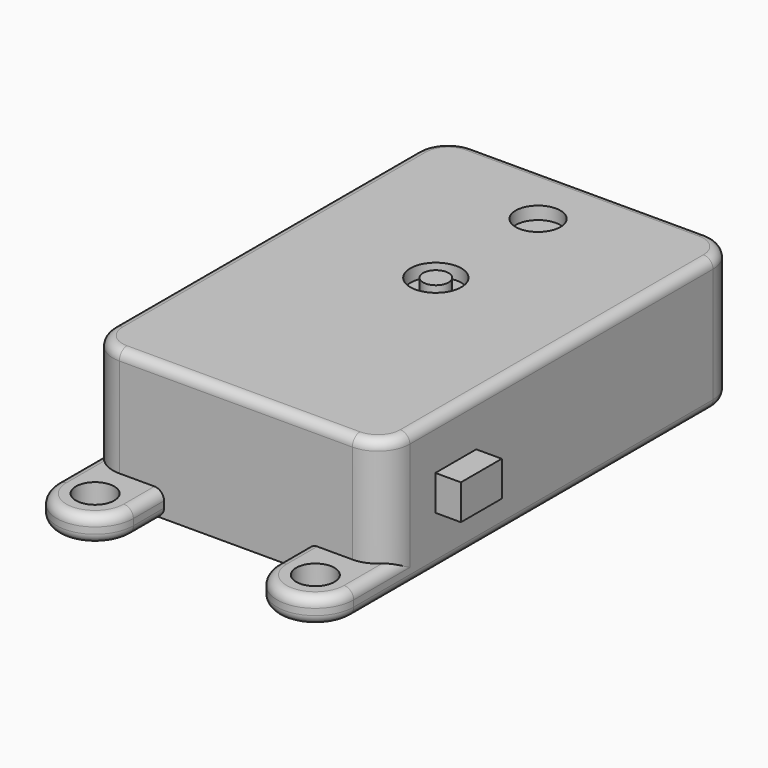
from build123d import *

# Parameters (mm, degrees)
SKETCH_W        = 23.25
SKETCH_H        = 34.68
PAD_DEPTH       = 10.5
SKETCH001_R     = 1.5
PAD001_DEPTH    = 2
SKETCH002_R     = 1.75
SKETCH002_R_2   = 2
SKETCH002_R_3   = 1
POCKET_DEPTH    = 1
FILLET_R        = 2.5
FILLET001_R     = 0.75
SKETCH003_W     = 5.08
SKETCH003_H     = 2.54
POCKET001_DEPTH = 5
SKETCH004_W     = 0.6
SKETCH004_H     = 0.6
SKETCH004_W_2   = 6.69
PAD002_DEPTH    = 4
SKETCH005_W     = 19.75
SKETCH005_H     = 31.18
POCKET002_DEPTH = 0.5
SKETCH006_W     = 4
SKETCH006_H     = 2.75
PAD003_DEPTH    = 2


with BuildPart() as part:
    # Sketch → Pad (new body)
    with BuildSketch(Plane.XY):
        Rectangle(SKETCH_W, SKETCH_H)
    extrude(amount=PAD_DEPTH)

    # Sketch001 (on Face5 of Pad) → Pad001 (join)
    with BuildSketch(Plane(origin=(0, 0, 0), x_dir=(1, 0, 0), z_dir=(0, 0, -1))):
        with BuildLine():
            Line((-11.625, 20.34), (-11.625, 17.34))
            Line((-11.625, 17.34), (-5.625, 17.34))
            Line((-5.625, 17.34), (-5.625, 20.34))
            ThreePointArc((-5.625, 20.34), (-8.625, 23.34), (-11.625, 20.34))
        make_face()
        with Locations((-8.625, 20.34)):
            Circle(SKETCH001_R, mode=Mode.SUBTRACT)
        with BuildLine():
            Line((5.625, 20.34), (5.625, 17.34))
            Line((5.625, 17.34), (11.625, 17.34))
            Line((11.625, 17.34), (11.625, 20.34))
            ThreePointArc((11.625, 20.34), (8.625, 23.34), (5.625, 20.34))
        make_face()
        with Locations((8.625, 20.34)):
            Circle(SKETCH001_R, mode=Mode.SUBTRACT)
    extrude(amount=-PAD001_DEPTH)

    # Sketch002 (on Face2 of Pad001) → Pocket (cut)
    with BuildSketch(Plane.XY.offset(10.5)):
        with Locations((0, 12.24)):
            Circle(SKETCH002_R)
        with Locations((0, 2.24)):
            Circle(SKETCH002_R_2)
        with Locations((0, 2.24)):
            Circle(SKETCH002_R_3, mode=Mode.SUBTRACT)
    extrude(amount=-POCKET_DEPTH, mode=Mode.SUBTRACT)

    # Fillet
    fillet_edges = [part.edges().sort_by_distance(p)[0] for p in [
        (11.625, -17.34, 6.25),
        (-11.625, -17.34, 6.25),
        (11.625, 17.34, 5.25),
        (-11.625, 17.34, 5.25),
    ]]
    fillet(fillet_edges, radius=FILLET_R)

    # Fillet001
    fillet001_edges = [part.edges().sort_by_distance(p)[0] for p in [
        (11.625, 0, 10.5),
        (10.892767, -16.607767, 10.5),
        (0, -17.34, 10.5),
        (-10.892767, -16.607767, 10.5),
        (-11.625, 0, 10.5),
        (-10.892767, 16.607767, 10.5),
        (0, 17.34, 10.5),
        (10.892767, 16.607767, 10.5),
        (-10.892767, 16.607767, 0),
        (-11.625, -18.84, 2),
        (-8.625, -23.34, 2),
        (-5.625, -18.84, 2),
        (5.625, -18.84, 2),
        (8.625, -23.34, 2),
        (11.625, -18.84, 2),
    ]]
    fillet(fillet001_edges, radius=FILLET001_R)

    # Sketch003 (on Face41 of Fillet001) → Pocket001 (cut)
    with BuildSketch(Plane(origin=(0, 17.34, 0), x_dir=(-1, 0, 0), z_dir=(0, 1, 0))):
        with Locations((-5.585, 5.25)):
            Rectangle(SKETCH003_W, SKETCH003_H)
        with BuildLine():
            ThreePointArc((1.61, 6.575), (0.285, 5.25), (1.61, 3.925))
            Line((1.61, 3.925), (7.3, 3.925))
            ThreePointArc((7.3, 3.925), (8.625, 5.25), (7.3, 6.575))
            Line((1.61, 6.575), (7.3, 6.575))
        make_face()
    extrude(amount=-POCKET001_DEPTH, mode=Mode.SUBTRACT)

    # Sketch004 (on Face55 of Pocket001) → Pad002 (join)
    with BuildSketch(Plane(origin=(0, 12.34, 0), x_dir=(-1, 0, 0), z_dir=(0, 1, 0))):
        with Locations((-7.49, 5.885)):
            Rectangle(SKETCH004_W, SKETCH004_H)
        with Locations((-6.22, 5.885)):
            Rectangle(SKETCH004_W, SKETCH004_H)
        with Locations((-4.95, 5.885)):
            Rectangle(SKETCH004_W, SKETCH004_H)
        with Locations((-3.68, 5.885)):
            Rectangle(SKETCH004_W, SKETCH004_H)
        with Locations((4.455, 5.25)):
            Rectangle(SKETCH004_W_2, SKETCH004_H)
    extrude(amount=PAD002_DEPTH)

    # Sketch005 (on Face9 of Pad002) → Pocket002 (cut)
    with BuildSketch(Plane(origin=(0, 0, 0), x_dir=(1, 0, 0), z_dir=(0, 0, -1))):
        Rectangle(SKETCH005_W, SKETCH005_H)
    extrude(amount=-POCKET002_DEPTH, mode=Mode.SUBTRACT)

    # Sketch006 (on Face24 of Pocket002) → Pad003 (join)
    with BuildSketch(Plane.YZ.offset(11.625)):
        with Locations((-10.34, 5.375)):
            Rectangle(SKETCH006_W, SKETCH006_H)
    pad003 = extrude(amount=PAD003_DEPTH)

    # Mirrored: Pad003 across YZ
    add(pad003.mirror(Plane.YZ))


solid = part.part
